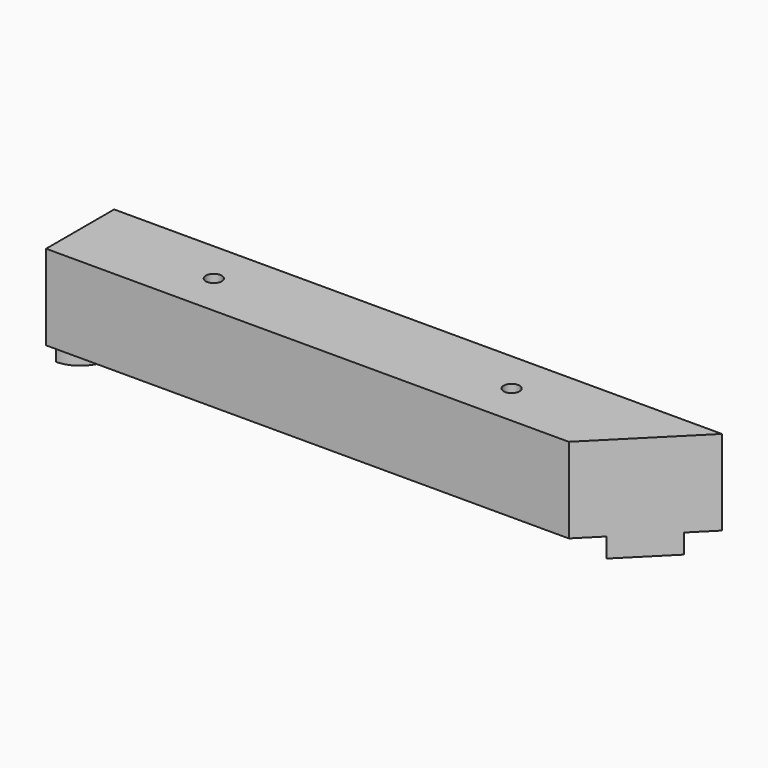
from build123d import *

# Parameters (mm, degrees)
F1_DEPTH  = 35
F3_D      = 6.5
F3_DEPTH  = 35
F3_TIP    = 1.9527970118
F4_D      = 6.5
F4_DEPTH  = 35
F4_TIP    = 1.9527970118
F6_W      = 24
F6_H      = 24
F7_DEPTH  = 25.5
F9_DEPTH  = 8
F11_DEPTH = 8


with BuildPart() as f1:
    # F0 (on Top) → F1 (new body)
    with BuildSketch(Plane.XY):
        Polygon((90, -17.5), (125, 17.5), (-125, 17.5), (-125, -17.5), align=None)
    extrude(amount=F1_DEPTH)

    # F3
    with Locations(Plane.XY.offset(35)):
        with Locations((-70, 0)):
            Hole(F3_D / 2, depth=F3_DEPTH)
            with Locations((0, 0, -(F3_DEPTH + F3_TIP / 2))):  # 118° drill point
                Cone(0, F3_D / 2, F3_TIP, mode=Mode.SUBTRACT)

    # F4
    with Locations(Plane.XY.offset(35)):
        with Locations((52.5, 0)):
            Hole(F4_D / 2, depth=F4_DEPTH)
            with Locations((0, 0, -(F4_DEPTH + F4_TIP / 2))):  # 118° drill point
                Cone(0, F4_D / 2, F4_TIP, mode=Mode.SUBTRACT)

    # F6 (on face) → F7 (cut)
    with BuildSketch(Plane(origin=(-125, 0, 0), x_dir=(0, -1, 0), z_dir=(-1, 0, 0))):
        with Locations((0, 17.5)):
            Rectangle(F6_W, F6_H)
    extrude(amount=-F7_DEPTH, mode=Mode.SUBTRACT)

    # F8 (on face) → F9 (join)
    with BuildSketch(Plane(origin=(0, 0, 0), x_dir=(1, 0, 0), z_dir=(0, 0, -1))):
        with BuildLine():
            Line((116.3388347648, -8.8388347648), (98.6611652352, 8.8388347648))
            ThreePointArc((98.6611652352, 8.8388347648), (98.6611652352, -8.8388347648), (116.3388347648, -8.8388347648))
        make_face()
    extrude(amount=F9_DEPTH)

    # F10 (on face) → F11 (join)
    with BuildSketch(Plane(origin=(0, 0, 0), x_dir=(1, 0, 0), z_dir=(0, 0, -1))):
        with BuildLine():
            ThreePointArc((-125, -12.5), (-116.1611652352, -8.8388347648), (-112.5, 0))
            ThreePointArc((-112.5, 0), (-116.1611652352, 8.8388347648), (-125, 12.5))
            Line((-125, 12.5), (-125, -12.5))
        make_face()
    extrude(amount=F11_DEPTH)


solid = f1.part
